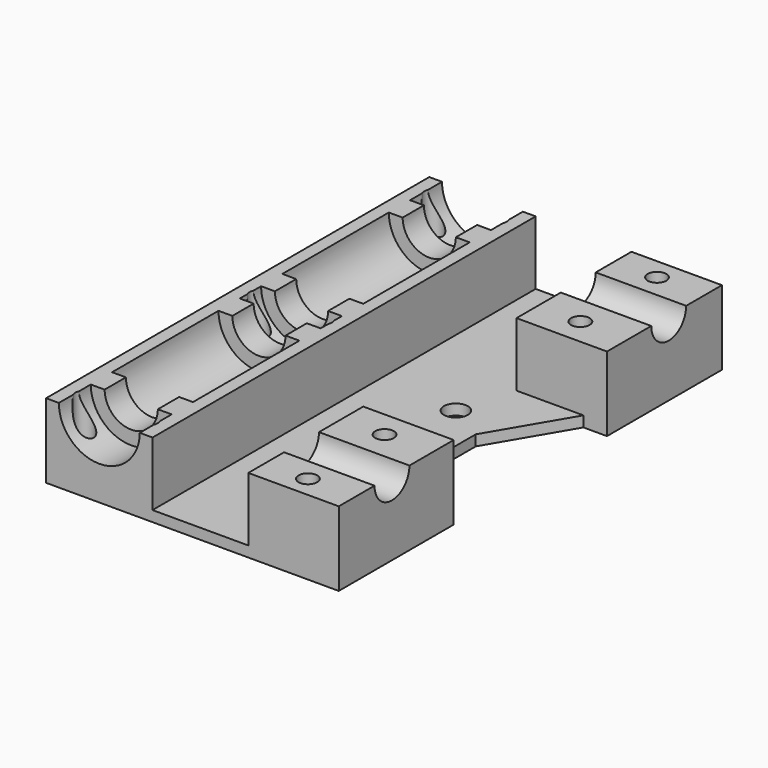
from build123d import *

# Parameters (mm, degrees)
PAD003_DEPTH    = 5
PAD001_DEPTH    = 5
PAD002_DEPTH    = 5
PAD004_DEPTH    = 5
SKETCH_W        = 55
SKETCH_H        = 90
PAD_DEPTH       = 14
SKETCH001_R     = 7.6
POCKET_DEPTH    = 90.001
SKETCH002_R     = 1.75
POCKET001_DEPTH = 14.001
POCKET002_DEPTH = 12
SKETCH004_R     = 2.25
POCKET003_DEPTH = 14.001
SKETCH008_R     = 4.1
POCKET005_DEPTH = 20
POCKET007_DEPTH = 4.5
POCKET008_DEPTH = 12.5


with BuildPart() as pad003:
    # Sketch020 → Pad003 (new body)
    with BuildSketch(Plane.XZ.offset(-32.5)):
        with BuildLine():
            ThreePointArc((-7.6, 14), (0, 6.4), (7.6, 14))
            Line((7.6, 14), (5, 14))
            ThreePointArc((-5, 14), (0, 9), (5, 14))
            Line((-7.6, 14), (-5, 14))
        make_face()
    extrude(amount=-PAD003_DEPTH)


with BuildPart() as pad001:
    # Sketch018 → Pad001 (new body)
    with BuildSketch(Plane.XZ.offset(-7.5)):
        with BuildLine():
            ThreePointArc((-7.6, 14), (0, 6.4), (7.6, 14))
            Line((7.6, 14), (5, 14))
            ThreePointArc((-5, 14), (0, 9), (5, 14))
            Line((-7.6, 14), (-5, 14))
        make_face()
    extrude(amount=PAD001_DEPTH)


with BuildPart() as pad002:
    # Sketch019 → Pad002 (new body)
    with BuildSketch(Plane.XZ.offset(7.5)):
        with BuildLine():
            ThreePointArc((-7.6, 14), (0, 6.4), (7.6, 14))
            Line((7.6, 14), (5, 14))
            ThreePointArc((-5, 14), (0, 9), (5, 14))
            Line((-7.6, 14), (-5, 14))
        make_face()
    extrude(amount=-PAD002_DEPTH)


with BuildPart() as pad004:
    # Sketch021 → Pad004 (new body)
    with BuildSketch(Plane.XZ.offset(32.5)):
        with BuildLine():
            ThreePointArc((-7.6, 14), (0, 6.4), (7.6, 14))
            Line((7.6, 14), (5, 14))
            ThreePointArc((-5, 14), (0, 9), (5, 14))
            Line((-7.6, 14), (-5, 14))
        make_face()
    extrude(amount=PAD004_DEPTH)


with BuildPart() as fusion:
    # Sketch → Pad (new body)
    with BuildSketch(Plane.XY):
        with Locations((17.5, 0)):
            Rectangle(SKETCH_W, SKETCH_H)
    extrude(amount=PAD_DEPTH)

    # Sketch001 → Pocket (cut, through all)
    with BuildSketch(Plane.XZ.offset(45)):
        with Locations((0, 14)):
            Circle(SKETCH001_R)
    extrude(amount=-POCKET_DEPTH, mode=Mode.SUBTRACT)

    # Sketch002 → Pocket001 (cut, through all)
    with BuildSketch(Plane.XY.offset(14)):
        with Locations((-6, 41)):
            Circle(SKETCH002_R)
        with Locations((-6, -41)):
            Circle(SKETCH002_R)
        with Locations((6, 41)):
            Circle(SKETCH002_R)
        with Locations((6, -41)):
            Circle(SKETCH002_R)
        with Locations((6, 0)):
            Circle(SKETCH002_R)
        with Locations((-6, 0)):
            Circle(SKETCH002_R)
        with Locations((36, 41)):
            Circle(SKETCH002_R)
        with Locations((36, 23)):
            Circle(SKETCH002_R)
        with Locations((36, -23)):
            Circle(SKETCH002_R)
        with Locations((36, -41)):
            Circle(SKETCH002_R)
    extrude(amount=-POCKET001_DEPTH, mode=Mode.SUBTRACT)

    # Sketch003 → Pocket002 (cut)
    with BuildSketch(Plane.XY.offset(14)):
        Polygon((10, 50), (10, -50), (28, -50), (28, -18), (48, -18), (48, 18), (28, 18), (28, 50), align=None)
    extrude(amount=-POCKET002_DEPTH, mode=Mode.SUBTRACT)

    # Sketch004 → Pocket003 (cut, through all)
    with BuildSketch(Plane(origin=(0, 0, 0), x_dir=(1, 0, 0), z_dir=(0, 0, -1))):
        with Locations((25, 7.5)):
            Circle(SKETCH004_R)
        with Locations((25, -7.5)):
            Circle(SKETCH004_R)
    extrude(amount=-POCKET003_DEPTH, mode=Mode.SUBTRACT)

    # Sketch008 → Pocket005 (cut)
    with BuildSketch(Plane.YZ.offset(45)):
        with Locations((-32.5, 14)):
            Circle(SKETCH008_R)
        with Locations((32.5, 14)):
            Circle(SKETCH008_R)
    extrude(amount=-POCKET005_DEPTH, mode=Mode.SUBTRACT)

    # Sketch012 → Pocket007 (cut)
    with BuildSketch(Plane(origin=(0, 0, 0), x_dir=(1, 0, 0), z_dir=(0, 0, -1))):
        Polygon((-4.412285, 2.750003), (-7.587715, 2.750003), (-9.17543, 0), (-7.587715, -2.750003), (-4.412285, -2.750003), (-2.82457, 0), align=None)
        Polygon((7.587715, 2.750003), (4.412285, 2.750003), (2.82457, 0), (4.412285, -2.750003), (7.587715, -2.750003), (9.17543, 0), align=None)
        Polygon((-4.412285, 43.750003), (-7.587715, 43.750003), (-9.17543, 41), (-7.587715, 38.249997), (-4.412285, 38.249997), (-2.82457, 41), align=None)
        Polygon((7.587715, -38.249997), (4.412285, -38.249997), (2.82457, -41), (4.412285, -43.750003), (7.587715, -43.750003), (9.17543, -41), align=None)
        Polygon((7.587715, 43.750003), (4.412285, 43.750003), (2.82457, 41), (4.412285, 38.249997), (7.587715, 38.249997), (9.17543, 41), align=None)
        Polygon((-4.412285, -38.249997), (-7.587715, -38.249997), (-9.17543, -41), (-7.587715, -43.750003), (-4.412285, -43.750003), (-2.82457, -41), align=None)
    extrude(amount=-POCKET007_DEPTH, mode=Mode.SUBTRACT)

    # Sketch022 → Pocket008 (cut, symmetric)
    with BuildSketch(Plane.XY.offset(2)):
        Polygon((40.573685, 18), (32, 3.425), (32, -3.425), (40.573685, -18), (51.573685, -18), (51.573685, 18), align=None)
    extrude(amount=POCKET008_DEPTH, both=True, mode=Mode.SUBTRACT)

    # Fusion: union Pad003, Pad001, Pad002, Pad004
    add(pad003.part)
    add(pad001.part)
    add(pad002.part)
    add(pad004.part)


solid = fusion.part
